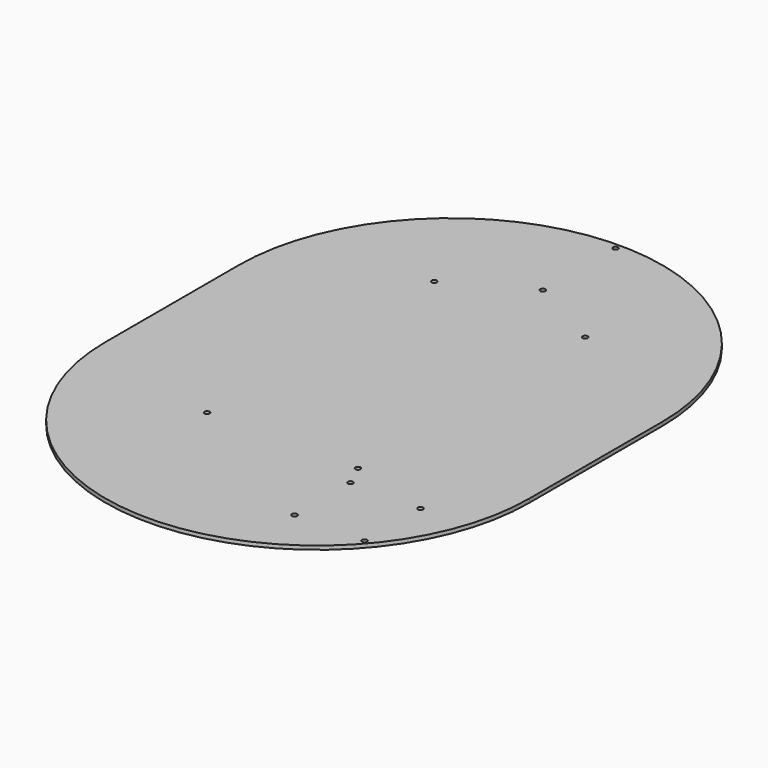
from build123d import *

# Parameters (mm, degrees)
F0_R     = 2.15265
F1_DEPTH = 3.175


with BuildPart() as f1:
    # F0 (on Top) → F1 (new body)
    with BuildSketch(Plane.XY):
        with BuildLine():
            ThreePointArc((355.6, 0), (177.8, 177.8), (0, 0))
            Line((0, 0), (0, -139.7))
            ThreePointArc((0, -139.7), (177.8, -317.5), (355.6, -139.7))
            Line((355.6, -139.7), (355.6, 0))
        make_face()
        with Locations((114.497731, -176.317746)):
            Circle(F0_R, mode=Mode.SUBTRACT)
        with Locations((250.03125, -254)):
            Circle(F0_R, mode=Mode.SUBTRACT)
        with Locations((250.03125, -195.2625)):
            Circle(F0_R, mode=Mode.SUBTRACT)
        with Locations((308.76875, -254)):
            Circle(F0_R, mode=Mode.SUBTRACT)
        with Locations((308.76875, -195.2625)):
            Circle(F0_R, mode=Mode.SUBTRACT)
        with Locations((241.102269, -176.317746)):
            Circle(F0_R, mode=Mode.SUBTRACT)
        with Locations((114.497731, 62.017746)):
            Circle(F0_R, mode=Mode.SUBTRACT)
        with Locations((177.8, 96.8375)):
            Circle(F0_R, mode=Mode.SUBTRACT)
        with Locations((241.102269, 62.017746)):
            Circle(F0_R, mode=Mode.SUBTRACT)
        with Locations((177.8, 173.0375)):
            Circle(F0_R, mode=Mode.SUBTRACT)
    extrude(amount=F1_DEPTH)


solid = f1.part
